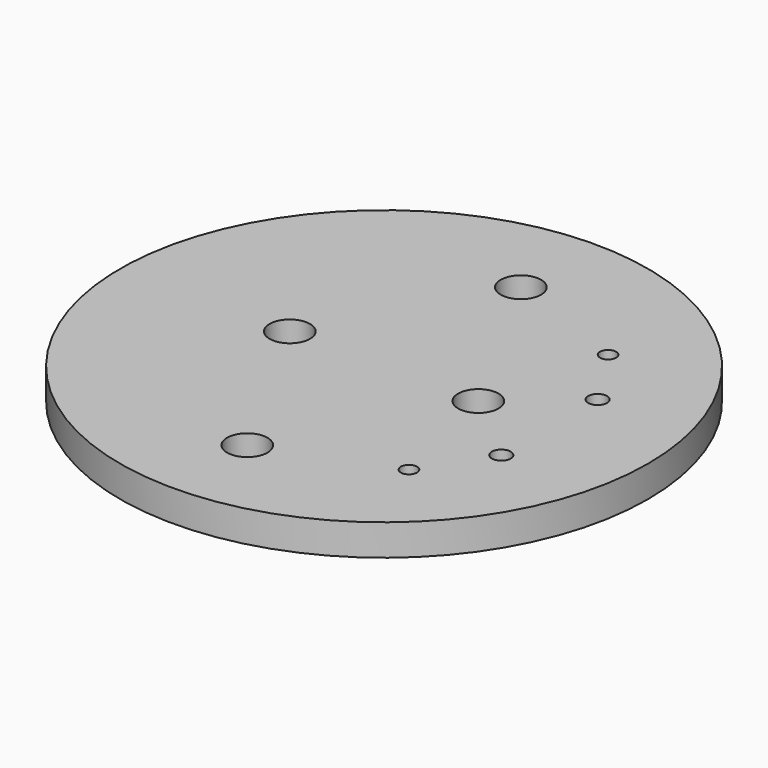
from build123d import *

# Parameters (mm, degrees)
SKETCH_R      = 49
PAD_DEPTH     = 5.8
SKETCH001_R   = 3.75
SKETCH001_R_2 = 1.5
SKETCH001_R_3 = 1.75
POCKET_DEPTH  = 5.801


with BuildPart() as part:
    # Sketch → Pad (new body)
    with BuildSketch(Plane.XY):
        Circle(SKETCH_R)
    extrude(amount=PAD_DEPTH)

    # Sketch001 (on Face3 of Pad) → Pocket (cut, through all)
    with BuildSketch(Plane.XY.offset(5.8)):
        with Locations((0, 31.75)):
            Circle(SKETCH001_R)
        with Locations((0, -31.75)):
            Circle(SKETCH001_R)
        with Locations((-17.5, 0)):
            Circle(SKETCH001_R)
        with Locations((17.5, 0)):
            Circle(SKETCH001_R)
        with Locations((23.098822, 23.098822)):
            Circle(SKETCH001_R_2)
        with Locations((23.098822, -23.098822)):
            Circle(SKETCH001_R_2)
        with Locations((30.696626, 11.172658)):
            Circle(SKETCH001_R_3)
        with Locations((30.696626, -11.172658)):
            Circle(SKETCH001_R_3)
    extrude(amount=-POCKET_DEPTH, mode=Mode.SUBTRACT)


solid = part.part
